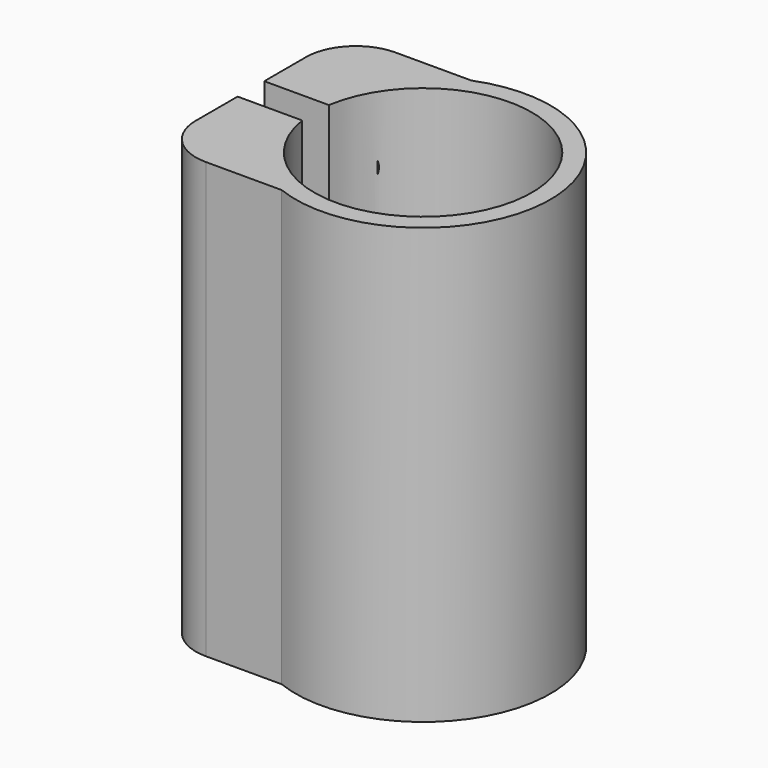
from build123d import *

# Parameters (mm, degrees)
F1_DEPTH       = 35
F3_D           = 5
F3_DEPTH       = 12
F3_START       = 1.7550021
F3_CBORE_D     = 10
F3_CBORE_DEPTH = 8
F3_TIP         = 1.5021515476


with BuildPart() as f1:
    # F0 (on Top) → F1 (new body, symmetric)
    with BuildSketch(Plane.XY):
        with BuildLine():
            ThreePointArc((-17.2933548246, 2.6813949562), (17.5, 0), (-17.2933548246, -2.6813949562))
            Line((-17.2933548246, -2.6813949562), (-27.6933548246, -2.6813949562))
            Line((-27.6933548246, -2.6813949562), (-27.6933548246, -11.0813949562))
            ThreePointArc((-27.6933548246, -11.0813949562), (-25.3502090741, -16.7382492056), (-19.6933548246, -19.0813949562))
            Line((-19.6933548246, -19.0813949562), (-7.4933548246, -19.0813949562))
            ThreePointArc((-7.4933548246, -19.0813949562), (20.5, 0), (-7.4933548246, 19.0813949562))
            Line((-7.4933548246, 19.0813949562), (-19.6933548246, 19.0813949562))
            ThreePointArc((-19.6933548246, 19.0813949562), (-25.3502090741, 16.7382492056), (-27.6933548246, 11.0813949562))
            Line((-27.6933548246, 11.0813949562), (-27.6933548246, 2.6813949562))
            Line((-27.6933548246, 2.6813949562), (-17.2933548246, 2.6813949562))
        make_face()
    extrude(amount=F1_DEPTH, both=True)

    # F3
    # its depths count from where the whole tool has entered the part; down to there all is cleared
    with Locations(Plane(origin=(0, 19.0813949562, 0), x_dir=(-1, 0, 0), z_dir=(0, 1, 0)).offset(-F3_START)):
        with Locations((19.6933548246, 24.25), (19.6933548246, 9.25), (19.6933548246, -9.25), (19.6933548246, -24.25)):
            CounterBoreHole(F3_D / 2, F3_CBORE_D / 2, F3_CBORE_DEPTH, depth=F3_DEPTH)
            with Locations((0, 0, -(F3_DEPTH + F3_TIP / 2))):  # 118° drill point
                Cone(0, F3_D / 2, F3_TIP, mode=Mode.SUBTRACT)


solid = f1.part
